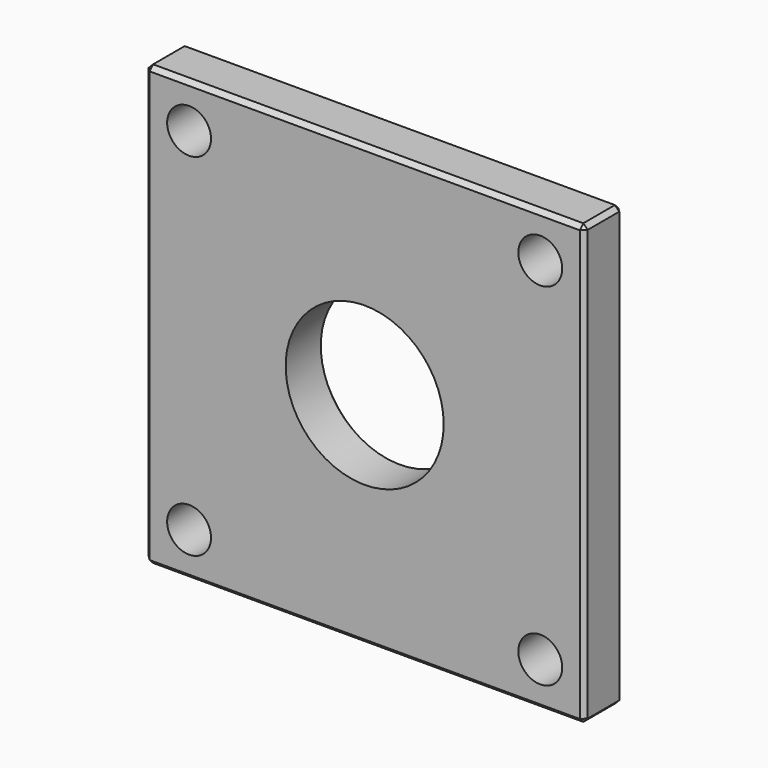
from build123d import *

# Parameters (mm, degrees)
F0_W     = 50
F0_H     = 50
F1_DEPTH = 5.5
F2_R     = 9
F3_DEPTH = 25
F4_R     = 2.5
F5_DEPTH = 25
F6_SIZE  = 0.5


with BuildPart() as f1:
    # F0 (on Front) → F1 (new body)
    with BuildSketch(Plane.XZ):
        Rectangle(F0_W, F0_H)
    extrude(amount=-F1_DEPTH)

    # F2 (on face) → F3 (cut)
    with BuildSketch(Plane.XZ):
        Circle(F2_R)
    extrude(amount=-F3_DEPTH, mode=Mode.SUBTRACT)

    # F4 (on face) → F5 (cut)
    with BuildSketch(Plane.XZ):
        with Locations((-20, -20)):
            Circle(F4_R)
        with Locations((20, -20)):
            Circle(F4_R)
        with Locations((-20, 20)):
            Circle(F4_R)
        with Locations((20, 20)):
            Circle(F4_R)
    extrude(amount=-F5_DEPTH, mode=Mode.SUBTRACT)

    # F6
    f6_edges = [f1.edges().sort_by_distance(p)[0] for p in [
        (0, 0, -25),
        (-25, 0, 0),
        (0, 0, 25),
        (25, 0, 0),
        (25, 2.75, -25),
        (-25, 2.75, -25),
        (-25, 2.75, 25),
        (25, 2.75, 25),
        (0, 5.5, 25),
        (25, 5.5, 0),
        (0, 5.5, -25),
        (-25, 5.5, 0),
        (-22.5, 5.5, -20),
        (17.5, 5.5, -20),
        (-22.5, 5.5, 20),
        (-9, 5.5, 0),
        (17.5, 5.5, 20),
    ]]
    chamfer(f6_edges, length=F6_SIZE)


solid = f1.part
